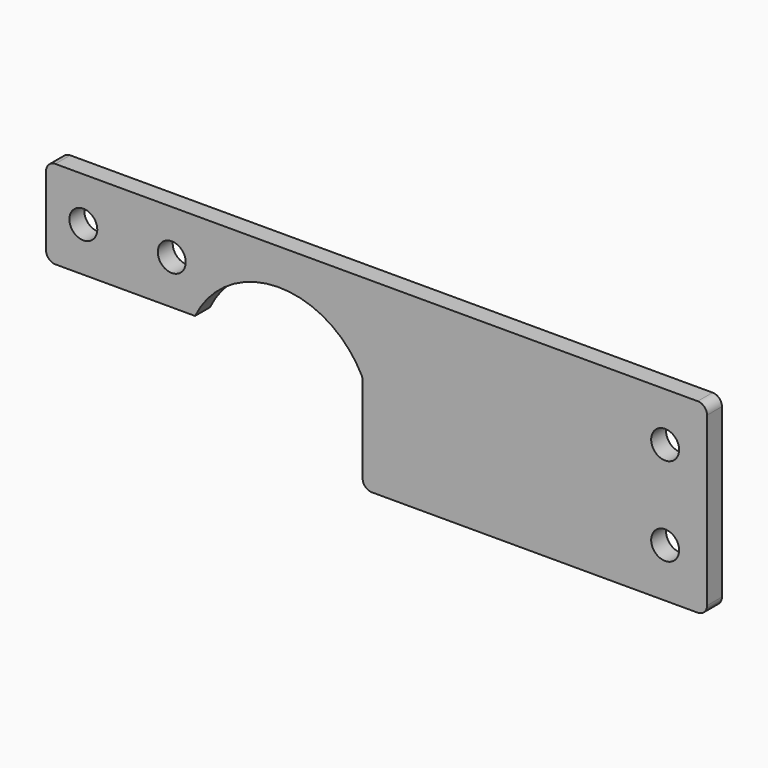
from build123d import *

# Parameters (mm, degrees)
F0_R     = 1.5
F1_DEPTH = 2
F2_R     = 1
F3_R     = 1


with BuildPart() as f1:
    # F0 (on Front) → F1 (new body)
    with BuildSketch(Plane.XZ):
        with BuildLine():
            Line((46.64072, -8.883281), (46.64072, 11.116719))
            Line((46.64072, 11.116719), (-24.35928, 11.116719))
            Line((-24.35928, 11.116719), (-24.35928, 1.616719))
            Line((-24.35928, 1.616719), (-8.35928, 1.616719))
            ThreePointArc((-8.35928, 1.616719), (0.64072, 7.25782), (9.64072, 1.616719))
            Line((9.64072, 1.616719), (9.64072, -8.883281))
            Line((9.64072, -8.883281), (46.64072, -8.883281))
        make_face()
        with Locations((42.141477, -3.633281)):
            Circle(F0_R, mode=Mode.SUBTRACT)
        with Locations((-20.358523, 6.366719)):
            Circle(F0_R, mode=Mode.SUBTRACT)
        with Locations((-10.858523, 6.366719)):
            Circle(F0_R, mode=Mode.SUBTRACT)
        with Locations((42.141477, 5.866719)):
            Circle(F0_R, mode=Mode.SUBTRACT)
    extrude(amount=F1_DEPTH)

    # F2
    f2_edges = [f1.edges().sort_by_distance(p)[0] for p in [
        (9.64072, -1, 1.616719),
    ]]
    fillet(f2_edges, radius=F2_R)

    # F3
    f3_edges = [f1.edges().sort_by_distance(p)[0] for p in [
        (46.64072, -1, 11.116719),
        (-24.35928, -1, 11.116719),
        (-24.35928, -1, 1.616719),
        (9.64072, -1, -8.883281),
        (46.64072, -1, -8.883281),
    ]]
    fillet(f3_edges, radius=F3_R)


solid = f1.part
